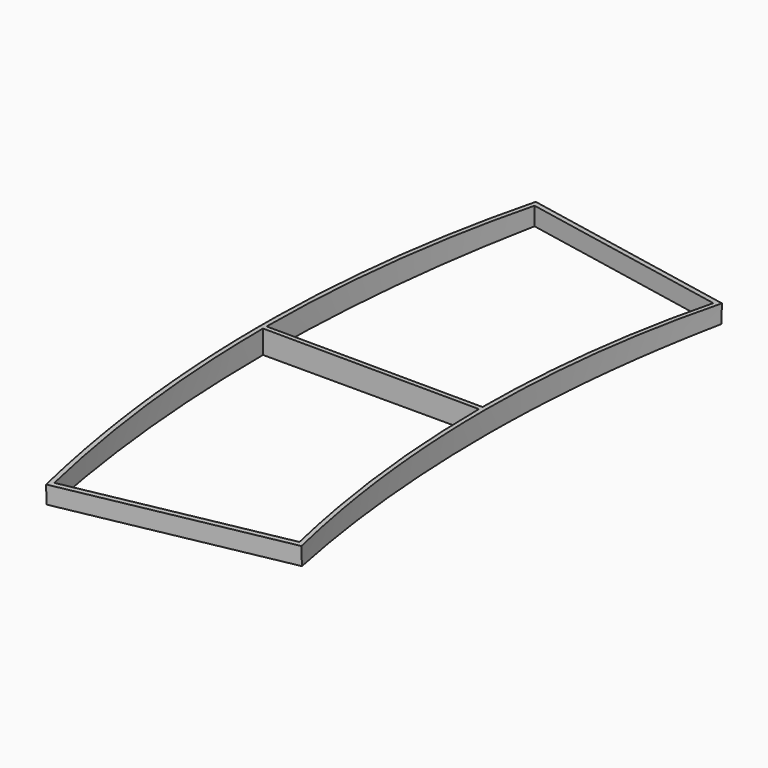
from build123d import *

# Parameters (mm, degrees)
F1_ANGLE_BACK = 11.25
F1_ANGLE      = 22.5
F2_W          = 45.7320638196
F2_H          = 22.3794019495
F2_W_2        = 176.9668050066
F2_H_2        = 15.0131394978
F2_W_3        = 53.8554313377
F4_W          = 51.5799054205
F4_H          = 20.0616745278
F5_ANGLE_BACK = 15
F5_ANGLE      = 30
F7_ANGLE_BACK = 15
F7_ANGLE      = 30
F9_DEPTH      = 25


with BuildPart() as f1:
    # F0 (on Front) → F1 (revolve)
    with BuildSketch(Plane.XZ, mode=Mode.PRIVATE) as f1_sk:
        Polygon((0.030159233, 10.9122785955), (0, 1.9123291278), (155.9991241063, 1.3895690886), (156.0292833394, 10.3895185563), align=None)
        Polygon((155.9991241063, 1.3895690886), (0, 1.9123291278), (51.0110905605, -7.2586618498), (155.9689648733, -7.610380379), align=None)
        Polygon((51.0110905605, -7.2586618498), (0, 1.9123291278), (-0.030159233, -7.0876203399), align=None)
    revolve(f1_sk.sketch.rotate(Axis((561.8991869329, 0, -48.7660320647), (-0.176947319, 0, -0.9842203241)), -F1_ANGLE_BACK), axis=Axis((561.8991869329, 0, -48.7660320647), (-0.176947319, 0, -0.9842203241)), revolution_arc=F1_ANGLE)

    # F2 (on Front) → F3 (revolve, cut)
    with BuildSketch(Plane.XZ):
        with Locations((16.1339680902, 18.1897009747)):
            Rectangle(F2_W, F2_H)
        with Locations((82.3720288345, -6.5065697489)):
            Rectangle(F2_W_2, F2_H_2)
        with Locations((143.9277156689, 18.1897009747)):
            Rectangle(F2_W_3, F2_H)
    revolve(axis=Axis((584.9095582962, 0, -6.0216095299), (0, 0, -1)), mode=Mode.SUBTRACT)

    # F4 (on Front) → F5 (revolve, cut)
    with BuildSketch(Plane.XZ, mode=Mode.PRIVATE) as f5_sk:
        Polygon((40.5, 12.6220593229), (-10.8453575522, 12.6220593229), (-10.8453575522, -3.9136288688), (17.7529230866, -3.9136288688), (40.5, -3.9136288688), align=None)
        with Locations((141.2899527103, 6.1172083952)):
            Rectangle(F4_W, F4_H)
    revolve(f5_sk.sketch.rotate(Axis((513.9181956959, 0, -119.0054643705), (0.3118081533, 0, 0.9501450813)), -F5_ANGLE_BACK), axis=Axis((513.9181956959, 0, -119.0054643705), (0.3118081533, 0, 0.9501450813)), revolution_arc=F5_ANGLE, mode=Mode.SUBTRACT)

    # F6 (on Front) → F7 (revolve, cut)
    with BuildSketch(Plane.XZ, mode=Mode.PRIVATE) as f7_sk:
        Polygon((16.4002180099, 17.1660631895), (0.0234571812, 8.9122898249), (156.0225812876, 8.3895297857), (144.173130393, 14.4683616236), align=None)
    revolve(f7_sk.sketch.rotate(Axis((561.8991869329, 0, -48.7660320647), (-0.176947319, 0, -0.9842203241)), -F7_ANGLE_BACK), axis=Axis((561.8991869329, 0, -48.7660320647), (-0.176947319, 0, -0.9842203241)), revolution_arc=F7_ANGLE, mode=Mode.SUBTRACT)

    # F8 (on face) → F9 (cut)
    with BuildSketch(Plane(origin=(0, 0, 1), x_dir=(1, 0, 0), z_dir=(0, 0, -1))):
        with BuildLine():
            Line((122.5469334165, 86.236710341), (51.8850553165, 100.0704402238))
            ThreePointArc((51.8850553165, 100.0704402238), (44.5142638986, 50.6519175795), (42.0005498992, 0.7500119204))
            Line((42.0005498992, 0.7500119204), (114.0006402026, 0.7500119204))
            ThreePointArc((114.0006402026, 0.7500119204), (116.1790999014, 43.7027715868), (122.5469334165, 86.236710341))
        make_face()
        with BuildLine():
            Line((114.0006401619, -0.7499880796), (42.0005498643, -0.7499880796))
            ThreePointArc((42.0005498643, -0.7499880796), (44.5142627181, -50.6519057176), (51.8850553165, -100.0704402238))
            Line((51.8850553165, -100.0704402238), (122.5469334165, -86.236710341))
            ThreePointArc((122.5469334165, -86.236710341), (116.1790987156, -43.7027597256), (114.0006401619, -0.7499880796))
        make_face()
    extrude(amount=-F9_DEPTH, mode=Mode.SUBTRACT)


solid = f1.part
